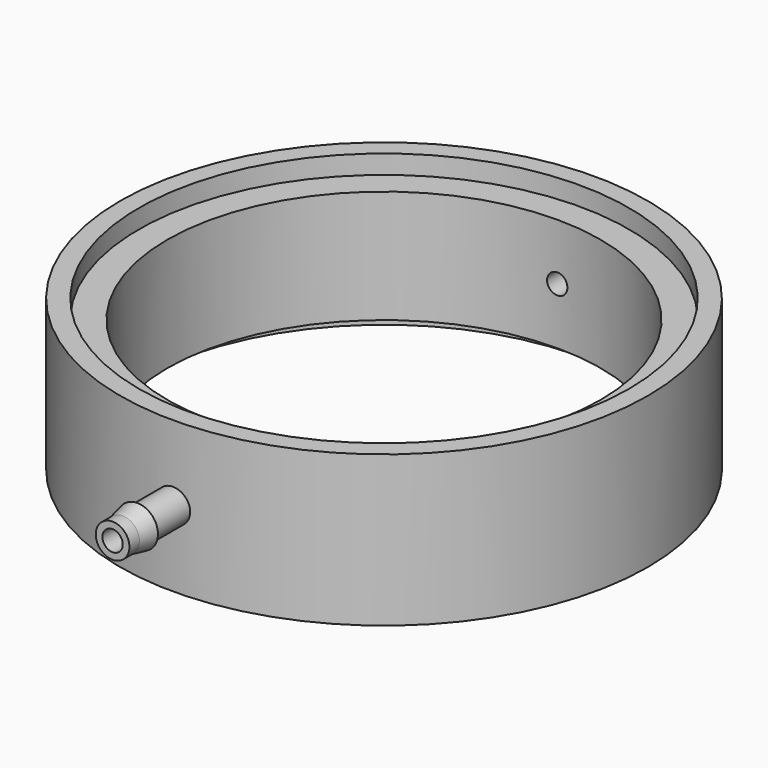
from build123d import *

# Parameters (mm, degrees)
F0_R      = 44.45
F1_DEPTH  = 12.7
F2_R      = 41.275
F3_DEPTH  = 12.7
F4_R      = 41.275
F5_DEPTH  = 9.525
F7_R      = 2.833981
F8_DEPTH  = 57.15
F11_R     = 1.713895
F12_DEPTH = 57.15
F6_R      = 36.5125
F15_DEPTH = 12.7


with BuildPart() as f1:
    # F0 (on Top) → F1 (new body, symmetric)
    with BuildSketch(Plane.XY):
        Circle(F0_R)
    extrude(amount=F1_DEPTH, both=True)

    # F2 (on Top) → F3 (cut, symmetric)
    with BuildSketch(Plane.XY):
        Circle(F2_R)
    extrude(amount=F3_DEPTH, both=True, mode=Mode.SUBTRACT)

    # F4 (on Top) → F5 (join, symmetric)
    with BuildSketch(Plane.XY):
        Circle(F4_R)
    extrude(amount=F5_DEPTH, both=True)

    # F7 (on Front) → F8 (join, symmetric)
    with BuildSketch(Plane.XZ):
        Circle(F7_R)
    extrude(amount=F8_DEPTH, both=True)

    # F9 (on Right) → F10 (revolve)
    with BuildSketch(Plane.YZ):
        Polygon((-51.933423, -2.833975), (-55.044275, -2.833975), (-51.933423, -3.468975), align=None)
    revolve(axis=Axis((0, -57.15, 0), (0, -1, 0)))

    # F11 (on Front) → F12 (cut, symmetric)
    with BuildSketch(Plane.XZ):
        Circle(F11_R)
    extrude(amount=F12_DEPTH, both=True, mode=Mode.SUBTRACT)

    # F13 (on Right) → F14 (revolve)
    with BuildSketch(Plane.YZ):
        Polygon((51.421318, -3.514614), (54.515656, -2.803493), (51.421318, -2.874012), align=None)
    revolve(axis=Axis((0, 57.15, 0), (0, -1, 0)))

    # F6 (on Top) → F15 (cut, symmetric)
    with BuildSketch(Plane.XY):
        Circle(F6_R)
    extrude(amount=F15_DEPTH, both=True, mode=Mode.SUBTRACT)


solid = f1.part
